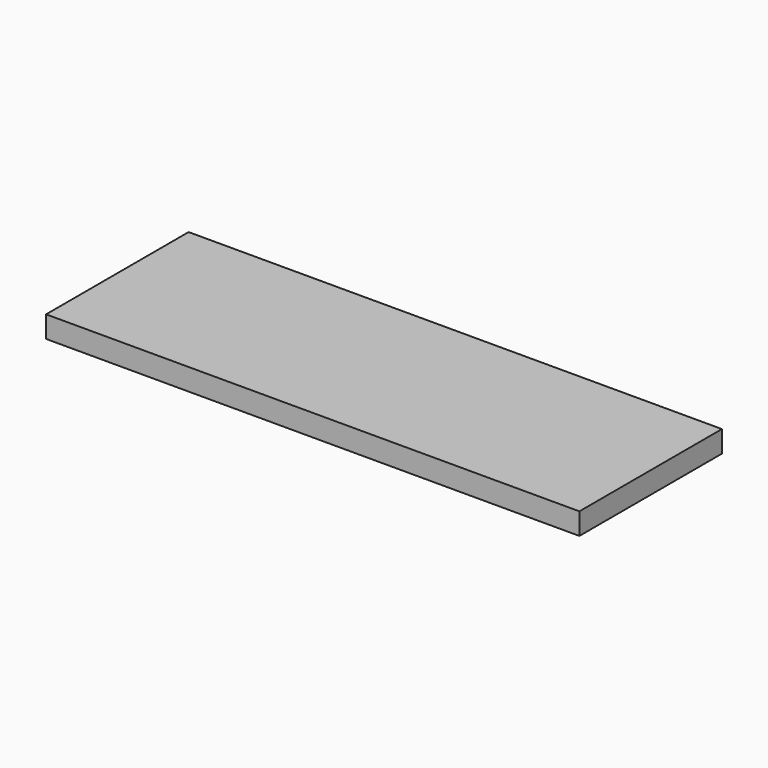
from build123d import *

# Parameters (mm, degrees)
SKETCH_W  = 443
SKETCH_H  = 148
PAD_DEPTH = 18


with BuildPart() as part:
    # Sketch → Pad (new body)
    with BuildSketch(Plane.XY):
        Rectangle(SKETCH_W, SKETCH_H)
    extrude(amount=PAD_DEPTH)


solid = part.part
